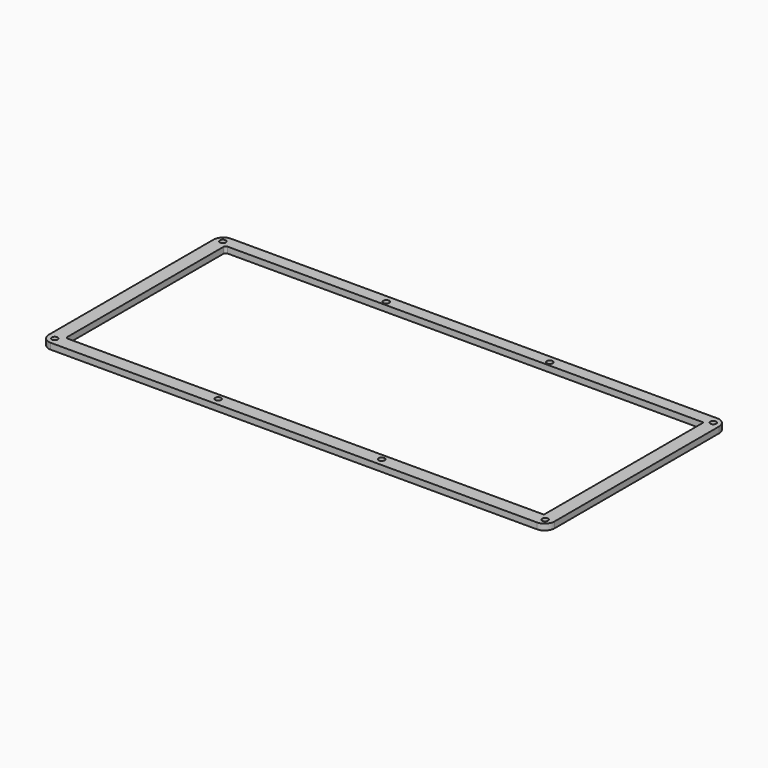
from build123d import *

# Parameters (mm, degrees)
SKETCH_W     = 263.525
SKETCH_H     = 117.475
PAD_DEPTH    = 3.175
SKETCH002_W  = 249.2375
SKETCH002_H  = 103.98125
POCKET_DEPTH = 3.176
SKETCH001_R  = 1.5494
HOLE_DEPTH   = 3.176
FILLET_R     = 5.08
FILLET001_R  = 1.27


with BuildPart() as part:
    # Sketch → Pad (new body)
    with BuildSketch(Plane.XY):
        Rectangle(SKETCH_W, SKETCH_H)
    extrude(amount=PAD_DEPTH)

    # Sketch002 (on Face6 of Pad) → Pocket (cut, through all)
    with BuildSketch(Plane.XY.offset(3.175)):
        with Locations((0, 0.396875)):
            Rectangle(SKETCH002_W, SKETCH002_H)
    extrude(amount=-POCKET_DEPTH, mode=Mode.SUBTRACT)

    # Sketch001 (on Face6 of Pad) → Hole (cut, through all)
    with BuildSketch(Plane.XY.offset(3.175)):
        with Locations((-42.597917, 54.76875)):
            Circle(SKETCH001_R)
        with Locations((42.597917, 54.76875)):
            Circle(SKETCH001_R)
        with Locations((42.597917, -54.76875)):
            Circle(SKETCH001_R)
        with Locations((-42.597917, -54.76875)):
            Circle(SKETCH001_R)
        with Locations((-127.79375, -54.76875)):
            Circle(SKETCH001_R)
        with Locations((-127.79375, 54.76875)):
            Circle(SKETCH001_R)
        with Locations((127.79375, 54.76875)):
            Circle(SKETCH001_R)
        with Locations((127.79375, -54.76875)):
            Circle(SKETCH001_R)
    extrude(amount=-HOLE_DEPTH, mode=Mode.SUBTRACT)

    # Fillet
    fillet_edges = [part.edges().sort_by_distance(p)[0] for p in [
        (-131.7625, 58.7375, 1.5875),
        (-131.7625, -58.7375, 1.5875),
        (131.7625, -58.7375, 1.5875),
        (131.7625, 58.7375, 1.5875),
    ]]
    fillet(fillet_edges, radius=FILLET_R)

    # Fillet001
    fillet001_edges = [part.edges().sort_by_distance(p)[0] for p in [
        (-124.61875, -51.59375, 1.5875),
        (-41.048517, 54.76875, 1.5875),
        (-126.24435, 54.76875, 1.5875),
        (-124.61875, 52.3875, 1.5875),
    ]]
    fillet(fillet001_edges, radius=FILLET001_R)


solid = part.part
